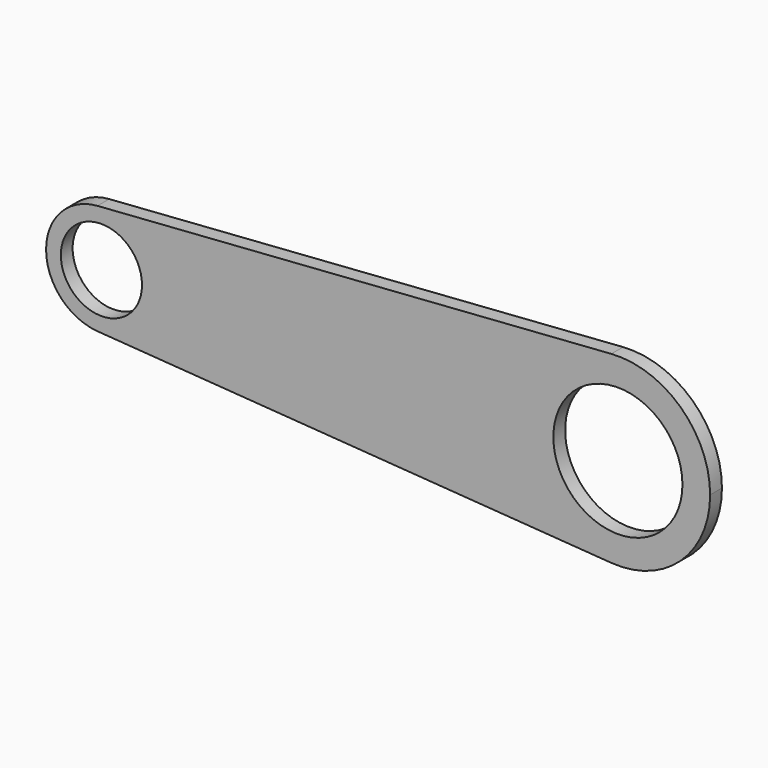
from build123d import *

# Parameters (mm, degrees)
F0_R     = 5.5
F0_R_2   = 8.75
F1_DEPTH = 2


with BuildPart() as f1:
    # F0 (on Front) → F1 (new body)
    with BuildSketch(Plane.XZ):
        with BuildLine():
            ThreePointArc((-2.502931, -7.480843), (3.143172, -5.489438), (5.532783, 0))
            ThreePointArc((5.532783, 0), (3.143172, 5.489438), (-2.502931, 7.480843))
            ThreePointArc((-2.502931, 7.480843), (-9.467217, 0), (-2.502931, -7.480843))
        make_face()
        with Locations((-1.967217, 0)):
            Circle(F0_R, mode=Mode.SUBTRACT)
        with BuildLine():
            ThreePointArc((-2.502931, 7.480843), (3.143172, 5.489438), (5.532783, 0))
            ThreePointArc((5.532783, 0), (3.143172, -5.489438), (-2.502931, -7.480843))
            Line((-2.502931, -7.480843), (67.139926, -12.468071))
            ThreePointArc((67.139926, -12.468071), (55.532783, 0), (67.139926, 12.468071))
            Line((67.139926, 12.468071), (-2.502931, 7.480843))
        make_face()
        with BuildLine():
            ThreePointArc((80.532783, 0), (76.550097, 9.149063), (67.139926, 12.468071))
            ThreePointArc((67.139926, 12.468071), (55.532783, 0), (67.139926, -12.468071))
            ThreePointArc((67.139926, -12.468071), (76.550097, -9.149063), (80.532783, 0))
        make_face()
        with Locations((68.032783, 0)):
            Circle(F0_R_2, mode=Mode.SUBTRACT)
    extrude(amount=F1_DEPTH)


solid = f1.part
